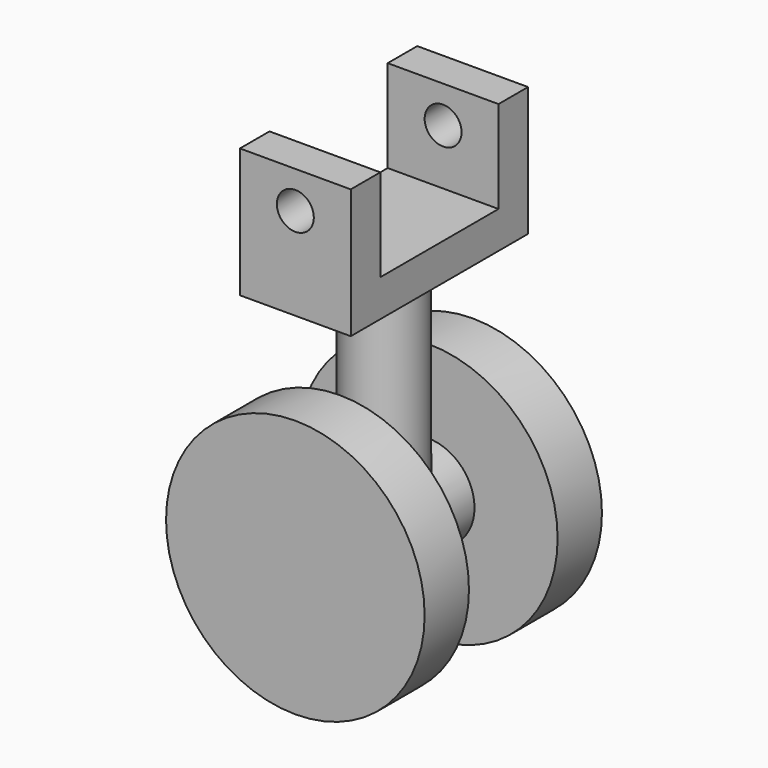
from build123d import *

# Parameters (mm, degrees)
F0_R      = 25.4
F1_DEPTH  = 152.4
F3_DEPTH  = 38.1
F4_R      = 31.75
F5_DEPTH  = 38.1
F6_R      = 88.9
F7_DEPTH  = 38.1
F9_R      = 12.7
F10_DEPTH = 152.401


with BuildPart() as f1:
    # F0 (on Top) → F1 (new body)
    with BuildSketch(Plane.XY):
        Circle(F0_R)
    extrude(amount=-F1_DEPTH)

    # F2 (on Right) → F3 (join, symmetric)
    with BuildSketch(Plane.YZ):
        Polygon((50.8, 25.4), (0, 25.4), (-50.8, 25.4), (-50.8, 88.9), (-76.2, 88.9), (-76.2, 0), (0, 0), (76.2, 0), (76.2, 88.9), (50.8, 88.9), align=None)
    extrude(amount=F3_DEPTH, both=True)

    # F4 (on Front) → F5 (join, symmetric)
    with BuildSketch(Plane.XZ):
        with Locations((0, -152.4)):
            Circle(F4_R)
    extrude(amount=F5_DEPTH, both=True)

    # F6 (on face) → F7 (join)
    with BuildSketch(Plane.XZ.offset(38.1)):
        with Locations((0, -152.4)):
            Circle(F6_R)
    extrude(amount=F7_DEPTH)

    # F8: F1 across plane


with BuildPart() as f1_1:
    add(f1.part)
    add(f1.part.mirror(Plane.XZ))

    # F9 (on face) → F10 (cut, through all)
    with BuildSketch(Plane.XZ.offset(76.2)):
        with Locations((0, 63.5)):
            Circle(F9_R)
    extrude(amount=-F10_DEPTH, mode=Mode.SUBTRACT)


solid = f1_1.part
